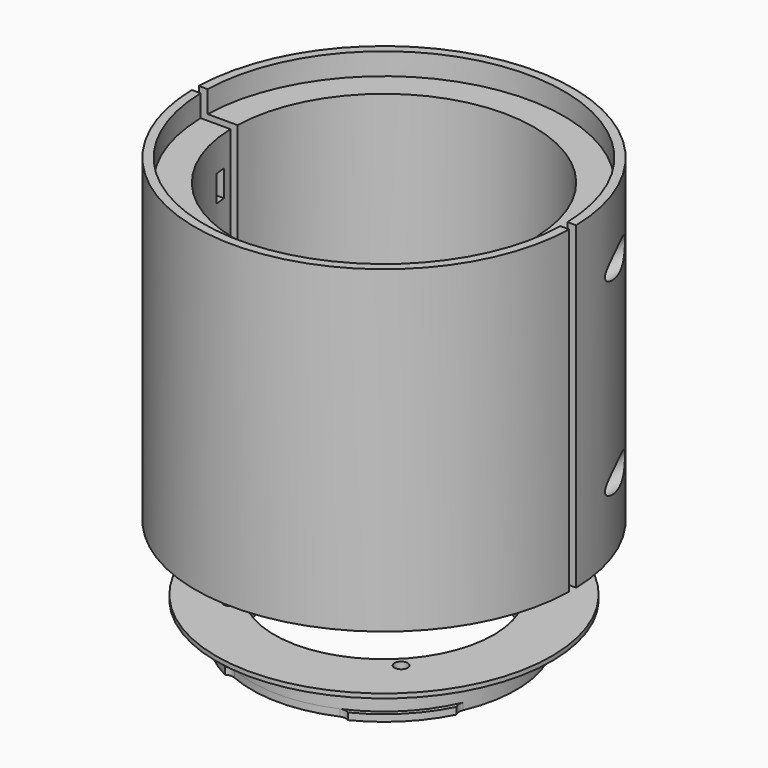
from build123d import *

# Parameters (mm, degrees)
PAD_DEPTH            = 2
SKETCH005_R          = 1.5
POCKET003_DEPTH      = 2.001
PAD001_DEPTH         = 68
SKETCH012_R          = 1.5
POCKET007_DEPTH      = 5
SKETCH013_W          = 2.6
SKETCH013_H          = 6
SKETCH013_W_2        = 2.5999999999
POCKET008_DEPTH      = 41.4
SKETCH014_W          = 2.5999999999
SKETCH014_H          = 6
POCKET009_DEPTH      = 41.4
SKETCH016_R          = 43
SKETCH016_R_2        = 38.2
POCKET011_DEPTH      = 2.3
POCKET012_DEPTH      = 5
PAD004_DEPTH         = 5
POCKET_DEPTH         = 1.55
POCKET001_DEPTH      = 1.55
SKETCH003_R          = 1.5
POCKET002_DEPTH      = 9.401
BODY_PLACEMENT_ANGLE = 315
PAD002_DEPTH         = 2
POCKET004_DEPTH      = 5
PAD003_DEPTH         = 68
SKETCH010_R          = 1.5
POCKET005_DEPTH      = 43.001
POCKET006_START      = -2
SKETCH011_R          = 3
POCKET006_DEPTH      = 24
SKETCH015_R          = 43
SKETCH015_R_2        = 38.2
POCKET010_DEPTH      = 2.3
POCKET013_DEPTH      = 5
PAD005_DEPTH         = 5


with BuildPart() as lens_holder_lower_part:
    # Sketch004 → Pad (new body)
    with BuildSketch(Plane.XY):
        with BuildLine():
            ThreePointArc((-24.9799919936, -1), (0, -25), (24.9799919936, -1))
            Line((24.9799919936, -1), (42.9883705204, -1))
            ThreePointArc((-42.9883705204, -1), (0, -43), (42.9883705204, -1))
            Line((-42.9883705204, -1), (-24.9799919936, -1))
        make_face()
    extrude(amount=PAD_DEPTH)

    # Sketch005 (on Face6 of Pad) → Pocket003 (cut, through all)
    with BuildSketch(Plane.XY.offset(2)):
        with Locations((-19.4806601718, -19.4806601718)):
            Circle(SKETCH005_R)
        with Locations((19.4806601718, -19.4806601718)):
            Circle(SKETCH005_R)
    extrude(amount=-POCKET003_DEPTH, mode=Mode.SUBTRACT)

    # Sketch006 (on Face5 of Pocket003) → Pad001 (join)
    with BuildSketch(Plane.XY.offset(2)):
        with BuildLine():
            ThreePointArc((-34.1853769908, -1), (0, -34.2), (34.1853769908, -1))
            Line((34.1853769908, -1), (42.9883705204, -1))
            ThreePointArc((-42.9883705204, -1), (0, -43), (42.9883705204, -1))
            Line((-42.9883705204, -1), (-34.1853769908, -1))
        make_face()
    extrude(amount=PAD001_DEPTH)

    # Sketch012 → Pocket007 (cut)
    with BuildSketch(Plane.XZ):
        with Locations((-38.5868737556, 17)):
            Circle(SKETCH012_R)
        with Locations((38.5868737556, 17)):
            Circle(SKETCH012_R)
        with Locations((38.5868737556, 60)):
            Circle(SKETCH012_R)
        with Locations((-38.5868737556, 60)):
            Circle(SKETCH012_R)
    extrude(amount=POCKET007_DEPTH, mode=Mode.SUBTRACT)

    # Sketch013 → Pocket008 (cut)
    with BuildSketch(Plane.YZ):
        with Locations((-4.3, 17)):
            Rectangle(SKETCH013_W, SKETCH013_H)
        with Locations((-4.3, 60)):
            Rectangle(SKETCH013_W_2, SKETCH013_H)
    extrude(amount=-POCKET008_DEPTH, mode=Mode.SUBTRACT)

    # Sketch014 → Pocket009 (cut)
    with BuildSketch(Plane.YZ):
        with Locations((-4.3, 60)):
            Rectangle(SKETCH014_W, SKETCH014_H)
        with Locations((-4.3, 17)):
            Rectangle(SKETCH014_W, SKETCH014_H)
    extrude(amount=POCKET009_DEPTH, mode=Mode.SUBTRACT)

    # Sketch016 → Pocket011 (cut)
    with BuildSketch(Plane.XY):
        Circle(SKETCH016_R)
        Circle(SKETCH016_R_2, mode=Mode.SUBTRACT)
    extrude(amount=POCKET011_DEPTH, mode=Mode.SUBTRACT)

    # Sketch017 → Pocket012 (cut)
    with BuildSketch(Plane.XY):
        with BuildLine():
            ThreePointArc((-40.8869087516, -1), (0, -40.8991357764), (40.8869087516, -1))
            Line((38.1869087516, -1), (40.8869087516, -1))
            ThreePointArc((-38.1869087516, -1), (0, -38.2), (38.1869087516, -1))
            Line((-40.8869087516, -1), (-38.1869087516, -1))
        make_face()
    extrude(amount=POCKET012_DEPTH, mode=Mode.SUBTRACT)

    # Sketch019 (on Face10 of Pocket012) → Pad004 (join)
    with BuildSketch(Plane.XY.offset(70)):
        with BuildLine():
            ThreePointArc((-42.9883705204, -1), (0, -43), (42.9883705204, -1))
            Line((40.9883705204, -1), (42.9883705204, -1))
            ThreePointArc((-40.9883705204, -1), (0, -41.0005672878), (40.9883705204, -1))
            Line((-42.9883705204, -1), (-40.9883705204, -1))
        make_face()
    extrude(amount=PAD004_DEPTH)


with BuildPart() as lens_holder_lower_part_1:
    # Body001 placement: moved
    add(lens_holder_lower_part.part.moved(Location((0, 0, 22))))


with BuildPart() as obj1:
    # Sketch → Revolution (revolve)
    with BuildSketch(Plane.XZ):
        Polygon((-25, 9.4), (-25, 0), (-31.1, 0), (-31.1, 1.55), (-30.1, 1.55), (-30.1, 4.9), (-31.1, 4.9), (-31.1, 8.4), (-38.2, 8.4), (-38.2, 9.4), align=None)
    revolve(axis=Axis((0, 0, 0), (0, 0, 1)))

    # Sketch001 (on Face2 of Revolution) → Pocket (cut)
    with BuildSketch(Plane(origin=(0, 0, 0), x_dir=(1, 0, 0), z_dir=(0, 0, -1))):
        with BuildLine():
            ThreePointArc((9.7, 29.5486040279), (10.1713692462, 28.6315961358), (11, 28.0180299093))
            ThreePointArc((28.0180299093, 11), (21.2839141137, 21.2839141137), (11, 28.0180299093))
            ThreePointArc((28.0180299093, 11), (28.6315961358, 10.1713692462), (29.5486040279, 9.7))
            ThreePointArc((29.5486040279, 9.7), (21.9910208949, 21.9910208949), (9.7, 29.5486040279))
        make_face()
        with BuildLine():
            ThreePointArc((-11, 28.0180299093), (-21.2839141137, 21.2839141137), (-28.0180299093, 11))
            ThreePointArc((-29.5486040279, 9.7), (-28.6315961358, 10.1713692462), (-28.0180299093, 11))
            ThreePointArc((-9.7, 29.5486040279), (-21.9910208949, 21.9910208949), (-29.5486040279, 9.7))
            ThreePointArc((-11, 28.0180299093), (-10.1713692462, 28.6315961358), (-9.7, 29.5486040279))
        make_face()
        with BuildLine():
            ThreePointArc((-28.0180299093, -11), (-21.2839141137, -21.2839141137), (-11, -28.0180299093))
            ThreePointArc((-9.7, -29.5486040279), (-10.1713692462, -28.6315961358), (-11, -28.0180299093))
            ThreePointArc((-29.5486040279, -9.7), (-21.9910208949, -21.9910208949), (-9.7, -29.5486040279))
            ThreePointArc((-28.0180299093, -11), (-28.6315961358, -10.1713692462), (-29.5486040279, -9.7))
        make_face()
        with BuildLine():
            ThreePointArc((11, -28.0180299093), (21.2839141137, -21.2839141137), (28.0180299093, -11))
            ThreePointArc((29.5486040279, -9.7), (28.6315961358, -10.1713692462), (28.0180299093, -11))
            ThreePointArc((9.7, -29.5486040279), (21.9910208949, -21.9910208949), (29.5486040279, -9.7))
            ThreePointArc((11, -28.0180299093), (10.1713692462, -28.6315961358), (9.7, -29.5486040279))
        make_face()
    extrude(amount=-POCKET_DEPTH, mode=Mode.SUBTRACT)

    # Sketch002 (on Face29 of Pocket) → Pocket001 (cut)
    with BuildSketch(Plane(origin=(0, 0, 4.9), x_dir=(1, 0, 0), z_dir=(0, 0, -1))):
        with BuildLine():
            ThreePointArc((28.0180299093, 11), (21.2839141137, 21.2839141137), (11, 28.0180299093))
            ThreePointArc((9.7, 29.5486040279), (10.1713692462, 28.6315961358), (11, 28.0180299093))
            ThreePointArc((29.5486040279, 9.7), (21.9910208949, 21.9910208949), (9.7, 29.5486040279))
            ThreePointArc((28.0180299093, 11), (28.6315961358, 10.1713692462), (29.5486040279, 9.7))
        make_face()
        with BuildLine():
            ThreePointArc((30.9244240043, 3.3), (30.6342740961, 5.3620192655), (30.2067873168, 7.4))
            Line((30.2067873168, 7.4), (27.9728448464, 6.852733119))
            Line((28.6374087243, 3.0559485531), (27.9728448464, 6.852733119))
            Line((30.9244240043, 3.3), (28.6374087243, 3.0559485531))
        make_face()
        with BuildLine():
            ThreePointArc((29.5486040279, -9.7), (28.6321471593, -10.170901383), (28.0186040279, -10.9986731696))
            ThreePointArc((2.6, -29.9875471349), (18.0144126125, -24.1141850659), (28.0186040279, -10.9986731696))
            Line((2.6, -29.9875471349), (2, -31.0356246916))
            ThreePointArc((2, -31.0356246916), (19.0428680685, -24.5881917946), (29.5486040279, -9.7))
        make_face()
        with BuildLine():
            ThreePointArc((-9.7, -29.5486040279), (-10.1713692462, -28.6315961358), (-11, -28.0180299093))
            ThreePointArc((-28.0180299093, -11), (-21.2839141137, -21.2839141137), (-11, -28.0180299093))
            ThreePointArc((-28.0180299093, -11), (-28.6315961358, -10.1713692462), (-29.5486040279, -9.7))
            ThreePointArc((-29.5486040279, -9.7), (-21.9910208949, -21.9910208949), (-9.7, -29.5486040279))
        make_face()
        with BuildLine():
            ThreePointArc((-11, 28.0180299093), (-21.2839141137, 21.2839141137), (-28.0180299093, 11))
            ThreePointArc((-29.5486040279, 9.7), (-28.6315961358, 10.1713692462), (-28.0180299093, 11))
            ThreePointArc((-9.7, 29.5486040279), (-21.9910208949, 21.9910208949), (-29.5486040279, 9.7))
            ThreePointArc((-11, 28.0180299093), (-10.1713692462, 28.6315961358), (-9.7, 29.5486040279))
        make_face()
    extrude(amount=-POCKET001_DEPTH, mode=Mode.SUBTRACT)

    # Sketch003 (on Face3 of Pocket001) → Pocket002 (cut, through all)
    with BuildSketch(Plane(origin=(0, 0, 0), x_dir=(1, 0, 0), z_dir=(0, 0, -1))):
        with Locations((-27.55, 0)):
            Circle(SKETCH003_R)
        with Locations((0, -27.55)):
            Circle(SKETCH003_R)
        with Locations((27.55, 0)):
            Circle(SKETCH003_R)
        with Locations((0, 27.55)):
            Circle(SKETCH003_R)
    extrude(amount=-POCKET002_DEPTH, mode=Mode.SUBTRACT)


with BuildPart() as obj1_1:
    # Body placement: moved
    add(obj1.part.rotate(Axis((0, 0, 0), (0, 0, 1)), BODY_PLACEMENT_ANGLE))


with BuildPart() as lens_holder_upper_part:
    # Sketch007 → Pad002 (new body)
    with BuildSketch(Plane.XY):
        with BuildLine():
            ThreePointArc((24.9799919936, 1), (0, 25), (-24.9799919936, 1))
            Line((-42.9883705204, 1), (-24.9799919936, 1))
            ThreePointArc((42.9883705204, 1), (0, 43), (-42.9883705204, 1))
            Line((24.9799919936, 1), (42.9883705204, 1))
        make_face()
    extrude(amount=PAD002_DEPTH)

    # Sketch008 (on Face6 of Pad002) → Pocket004 (cut)
    with BuildSketch(Plane.XY.offset(2)):
        with BuildLine():
            ThreePointArc((-20.9806601718, 19.4806601718), (-19.4806601718, 17.9806601718), (-17.9806601718, 19.4806601718))
            Line((-17.9806601718, 19.4806601718), (-17.9806601718, 22.4806601718))
            ThreePointArc((-17.9806601718, 22.4806601718), (-19.4806601718, 23.9806601718), (-20.9806601718, 22.4806601718))
            Line((-20.9806601718, 19.4806601718), (-20.9806601718, 22.4806601718))
        make_face()
        with BuildLine():
            ThreePointArc((17.9806601718, 19.4806601718), (19.4806601718, 17.9806601718), (20.9806601718, 19.4806601718))
            Line((20.9806601718, 19.4806601718), (20.9806601718, 22.4806601718))
            ThreePointArc((20.9806601718, 22.4806601718), (19.4806601718, 23.9806601718), (17.9806601718, 22.4806601718))
            Line((17.9806601718, 19.4806601718), (17.9806601718, 22.4806601718))
        make_face()
    extrude(amount=-POCKET004_DEPTH, mode=Mode.SUBTRACT)

    # Sketch009 (on Face5 of Pocket004) → Pad003 (join)
    with BuildSketch(Plane.XY.offset(2)):
        with BuildLine():
            ThreePointArc((34.1853769908, 1), (0, 34.2), (-34.1853769908, 1))
            Line((-42.9883705204, 1), (-34.1853769908, 1))
            ThreePointArc((42.9883705204, 1), (0, 43), (-42.9883705204, 1))
            Line((34.1853769908, 1), (42.9883705204, 1))
        make_face()
    extrude(amount=PAD003_DEPTH)

    # Sketch010 → Pocket005 (cut, through all)
    with BuildSketch(Plane.XZ):
        with Locations((-38.5868737556, 60)):
            Circle(SKETCH010_R)
        with Locations((38.5868737556, 60)):
            Circle(SKETCH010_R)
        with Locations((38.5868737556, 17)):
            Circle(SKETCH010_R)
        with Locations((-38.5868737556, 17)):
            Circle(SKETCH010_R)
    extrude(amount=-POCKET005_DEPTH, mode=Mode.SUBTRACT)

    # Sketch011 → Pocket006 (cut)
    with BuildSketch(Plane.XZ.offset(POCKET006_START)):
        with Locations((-38.5868737556, 60)):
            Circle(SKETCH011_R)
        with Locations((-38.5868737556, 17)):
            Circle(SKETCH011_R)
        with Locations((38.5868737556, 17)):
            Circle(SKETCH011_R)
        with Locations((38.5868737556, 60)):
            Circle(SKETCH011_R)
    extrude(amount=-POCKET006_DEPTH, mode=Mode.SUBTRACT)

    # Sketch015 → Pocket010 (cut)
    with BuildSketch(Plane.XY):
        Circle(SKETCH015_R)
        Circle(SKETCH015_R_2, mode=Mode.SUBTRACT)
    extrude(amount=POCKET010_DEPTH, mode=Mode.SUBTRACT)

    # Sketch018 → Pocket013 (cut)
    with BuildSketch(Plane.XY):
        with BuildLine():
            ThreePointArc((40.8869087516, 1), (0, 40.8991357764), (-40.8869087516, 1))
            Line((-38.1869087516, 1), (-40.8869087516, 1))
            ThreePointArc((38.1869087516, 1), (0, 38.2), (-38.1869087516, 1))
            Line((38.1869087516, 1), (40.8869087516, 1))
        make_face()
    extrude(amount=POCKET013_DEPTH, mode=Mode.SUBTRACT)

    # Sketch020 (on Face7 of Pocket013) → Pad005 (join)
    with BuildSketch(Plane.XY.offset(70)):
        with BuildLine():
            ThreePointArc((42.9883705204, 1), (0, 43), (-42.9883705204, 1))
            Line((-42.9883705204, 1), (-40.9883705204, 1))
            ThreePointArc((40.9883705204, 1), (0, 41.0005672878), (-40.9883705204, 1))
            Line((40.9883705204, 1), (42.9883705204, 1))
        make_face()
    extrude(amount=PAD005_DEPTH)


with BuildPart() as lens_holder_upper_part_1:
    # Body002 placement: moved
    add(lens_holder_upper_part.part.moved(Location((0, 0, 22))))


solid = Compound([lens_holder_lower_part_1.part, obj1_1.part, lens_holder_upper_part_1.part])
